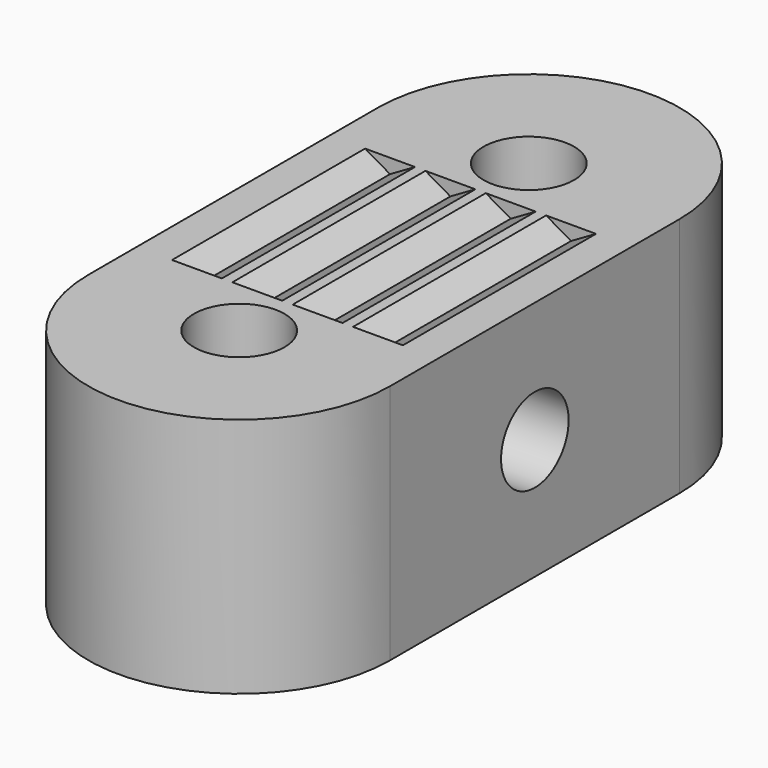
from build123d import *

# Parameters (mm, degrees)
PAD002_DEPTH = 8
SKETCH001_R  = 1.4
PAD001_DEPTH = 5
SKETCH_R     = 1.5
PAD_DEPTH    = 8


with BuildPart() as pad002:
    # Sketch002 → Pad002 (new body)
    with BuildSketch(Plane(origin=(-6, 10, 4), x_dir=(1, 0, 0), z_dir=(0, -1, 0))):
        Polygon((2, 4.1), (3, 3.52265), (4, 4.1), (5, 3.52265), (6, 4.1), (7, 3.52265), (8, 4.1), (9, 3.52265), (10, 4.1), (10, 5.1), (2, 5.1), align=None)
    extrude(amount=PAD002_DEPTH)


with BuildPart() as fusion:
    # Sketch001 → Pad001 (new body, symmetric)
    with BuildSketch(Plane.YZ):
        with Locations((6, 4)):
            Circle(SKETCH001_R)
    extrude(amount=PAD001_DEPTH, both=True)

    # Fusion: union Pad002
    add(pad002.part)


with BuildPart() as cut:
    # Sketch → Pad (new body)
    with BuildSketch(Plane.XY):
        with BuildLine():
            ThreePointArc((5, 12), (0, 17), (-5, 12))
            Line((-5, 12), (-5, 0))
            ThreePointArc((-5, 0), (0, -5), (5, 0))
            Line((5, 12), (5, 0))
        make_face()
        with Locations((0, 12)):
            Circle(SKETCH_R, mode=Mode.SUBTRACT)
        Circle(SKETCH_R, mode=Mode.SUBTRACT)
    extrude(amount=PAD_DEPTH)

    # Cut: cut Fusion
    add(fusion.part, mode=Mode.SUBTRACT)


solid = cut.part
